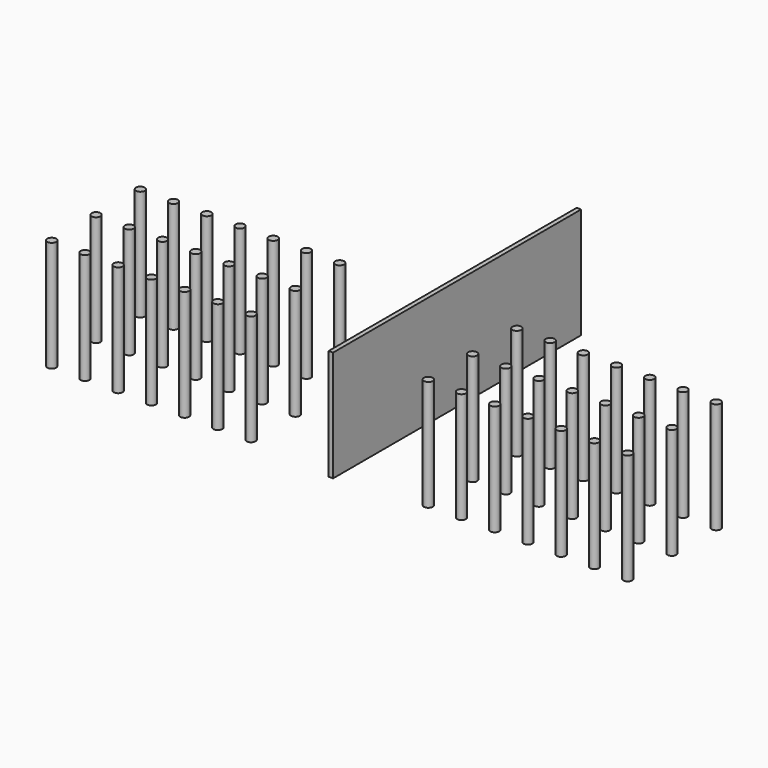
from build123d import *

# Parameters (mm, degrees)
F0_R     = 1
F1_DEPTH = 25


with BuildPart() as f1:
    # F0 (on Top) → F1 (new body)
    with BuildSketch(Plane.XY):
        Polygon((-2.648889, 0), (-2.648889, 70), (-3.648889, 70), (-3.648889, 0), (-3.148889, 0), align=None)
        with Locations((46.851111, 27.5)):
            Circle(F0_R)
        with Locations((46.851111, 15)):
            Circle(F0_R)
        with Locations((-38.148889, 27.5)):
            Circle(F0_R)
        with Locations((-38.148889, 15)):
            Circle(F0_R)
        with Locations((-23.148889, 27.5)):
            Circle(F0_R)
        with Locations((-23.148889, 15)):
            Circle(F0_R)
        with Locations((31.851111, 27.5)):
            Circle(F0_R)
        with Locations((16.851111, 27.5)):
            Circle(F0_R)
        with Locations((31.851111, 15)):
            Circle(F0_R)
        with Locations((16.851111, 15)):
            Circle(F0_R)
        with Locations((-68.148889, 27.5)):
            Circle(F0_R)
        with Locations((-68.148889, 15)):
            Circle(F0_R)
        with Locations((61.851111, 27.5)):
            Circle(F0_R)
        with Locations((61.851111, 15)):
            Circle(F0_R)
        with Locations((-60.648889, 27.5)):
            Circle(F0_R)
        with Locations((-60.648889, 15)):
            Circle(F0_R)
        with Locations((-53.148889, 27.5)):
            Circle(F0_R)
        with Locations((-53.148889, 15)):
            Circle(F0_R)
        with Locations((-45.648889, 27.5)):
            Circle(F0_R)
        with Locations((-45.648889, 15)):
            Circle(F0_R)
        with Locations((54.351111, 27.5)):
            Circle(F0_R)
        with Locations((54.351111, 15)):
            Circle(F0_R)
        with Locations((39.351111, 27.5)):
            Circle(F0_R)
        with Locations((39.351111, 15)):
            Circle(F0_R)
        with Locations((-30.648889, 27.5)):
            Circle(F0_R)
        with Locations((-30.648889, 15)):
            Circle(F0_R)
        with Locations((24.351111, 27.5)):
            Circle(F0_R)
        with Locations((24.351111, 15)):
            Circle(F0_R)
        with Locations((-38.148889, 2.5)):
            Circle(F0_R)
        with Locations((-68.148889, 2.5)):
            Circle(F0_R)
        with Locations((-53.148889, 2.5)):
            Circle(F0_R)
        with Locations((-30.648889, 2.5)):
            Circle(F0_R)
        with Locations((-23.148889, 2.5)):
            Circle(F0_R)
        with Locations((-60.648889, 2.5)):
            Circle(F0_R)
        with Locations((-45.648889, 2.5)):
            Circle(F0_R)
        with Locations((31.851111, 2.5)):
            Circle(F0_R)
        with Locations((24.351111, 2.5)):
            Circle(F0_R)
        with Locations((54.351111, 2.5)):
            Circle(F0_R)
        with Locations((16.851111, 2.5)):
            Circle(F0_R)
        with Locations((46.851111, 2.5)):
            Circle(F0_R)
        with Locations((61.851111, 2.5)):
            Circle(F0_R)
        with Locations((39.351111, 2.5)):
            Circle(F0_R)
    extrude(amount=F1_DEPTH)


solid = f1.part
